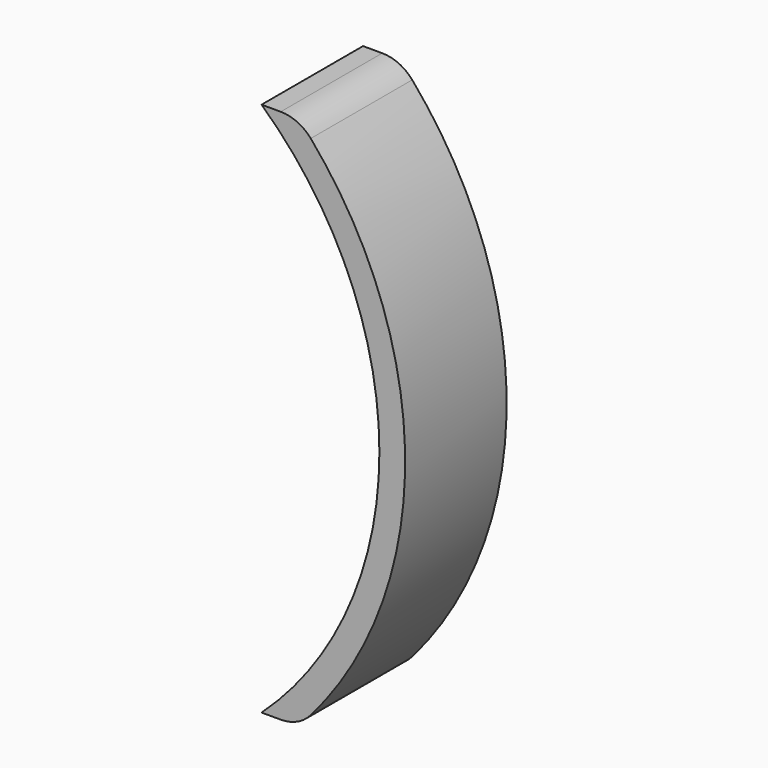
from build123d import *

# Parameters (mm, degrees)
F1_DEPTH = 32


with BuildPart() as f1:
    # F0 (on Front) → F1 (new body)
    with BuildSketch(Plane.XZ):
        with BuildLine():
            ThreePointArc((61.773781, 67.5), (91.5, 0), (61.773781, -67.5))
            Line((61.773781, -67.5), (66.616439, -67.5))
            ThreePointArc((66.616439, -67.5), (70.779316, -66.592329), (74.186489, -64.034091))
            ThreePointArc((74.186489, -64.034091), (98, 0), (74.186489, 64.034091))
            ThreePointArc((74.186489, 64.034091), (70.779316, 66.592329), (66.616439, 67.5))
            Line((66.616439, 67.5), (61.773781, 67.5))
        make_face()
    extrude(amount=F1_DEPTH)


solid = f1.part
